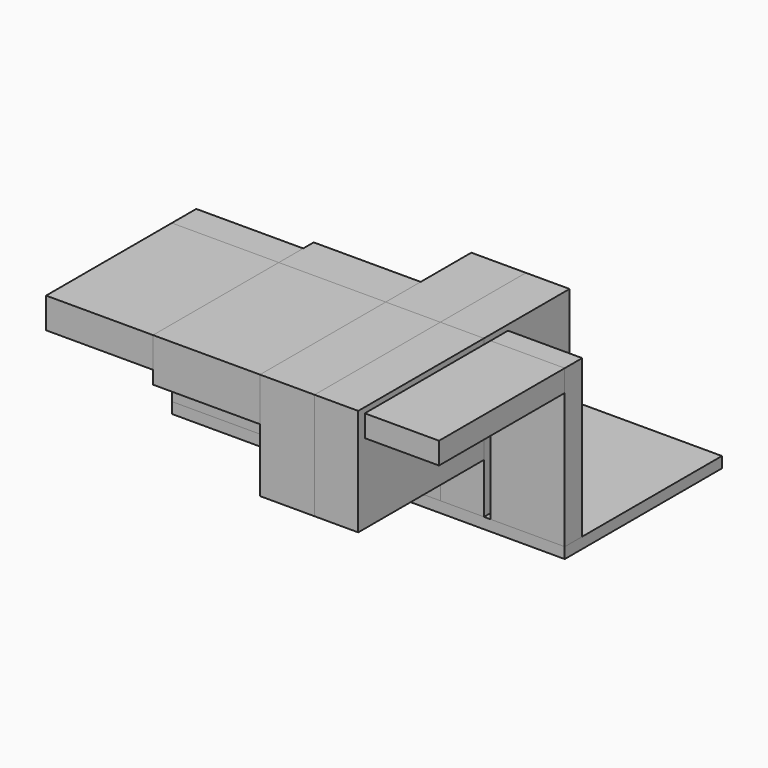
from build123d import *

# Parameters (mm, degrees)
F1_DEPTH = 450
F0_W     = 245
F0_H     = 360
F2_DEPTH = 70
F0_W_2   = 170
F3_DEPTH = 50
F4_DEPTH = 100
F0_W_3   = 125
F5_DEPTH = 245
F0_W_4   = 100
F6_DEPTH = 245
F7_ANGLE = 90


with BuildPart() as f1:
    # F0 (on Front) → F1 (new body)
    with BuildSketch(Plane.XZ):
        Polygon((-450, -12.5), (450, -12.5), (450, 12.5), (280, 12.5), (265, 12.5), (165, 12.5), (40, 12.5), (-205, 12.5), (-450, 12.5), align=None)
    extrude(amount=-F1_DEPTH)


with BuildPart() as f2:
    # F0 (on Front) → F2 (new body)
    with BuildSketch(Plane.XZ):
        with Locations((-327.5, 192.5)):
            Rectangle(F0_W, F0_H)
    extrude(amount=-F2_DEPTH)


with BuildPart() as f3:
    # F0 (on Front) → F3 (new body)
    with BuildSketch(Plane.XZ):
        with Locations((365, 192.5)):
            Rectangle(F0_W_2, F0_H)
    extrude(amount=-F3_DEPTH)


with BuildPart() as f4:
    # F0 (on Front) → F4 (new body)
    with BuildSketch(Plane.XZ):
        with Locations((-82.5, 192.5)):
            Rectangle(F0_W, F0_H)
    extrude(amount=-F4_DEPTH)


with BuildPart() as f5:
    # F0 (on Front) → F5 (new body)
    with BuildSketch(Plane.XZ):
        with Locations((102.5, 192.5)):
            Rectangle(F0_W_3, F0_H)
    extrude(amount=-F5_DEPTH)


with BuildPart() as f6:
    # F0 (on Front) → F6 (new body)
    with BuildSketch(Plane.XZ):
        with Locations((215, 192.5)):
            Rectangle(F0_W_4, F0_H)
    extrude(amount=-F6_DEPTH)


with BuildPart() as f7_1:
    # F7: copy of F2
    add(f2.part.rotate(Axis((365, 0, 372.5), (-1, 0, 0)), F7_ANGLE))


with BuildPart() as f7_2:
    # F7: copy of F4
    add(f4.part.rotate(Axis((365, 0, 372.5), (-1, 0, 0)), F7_ANGLE))


with BuildPart() as f7_3:
    # F7: copy of F5
    add(f5.part.rotate(Axis((365, 0, 372.5), (-1, 0, 0)), F7_ANGLE))


with BuildPart() as f7_4:
    # F7: copy of F6
    add(f6.part.rotate(Axis((365, 0, 372.5), (-1, 0, 0)), F7_ANGLE))


with BuildPart() as f7_5:
    # F7: copy of F3
    add(f3.part.rotate(Axis((365, 0, 372.5), (-1, 0, 0)), F7_ANGLE))


solid = Compound([f1.part, f2.part, f3.part, f4.part, f5.part, f6.part, f7_1.part, f7_2.part, f7_3.part, f7_4.part, f7_5.part])
